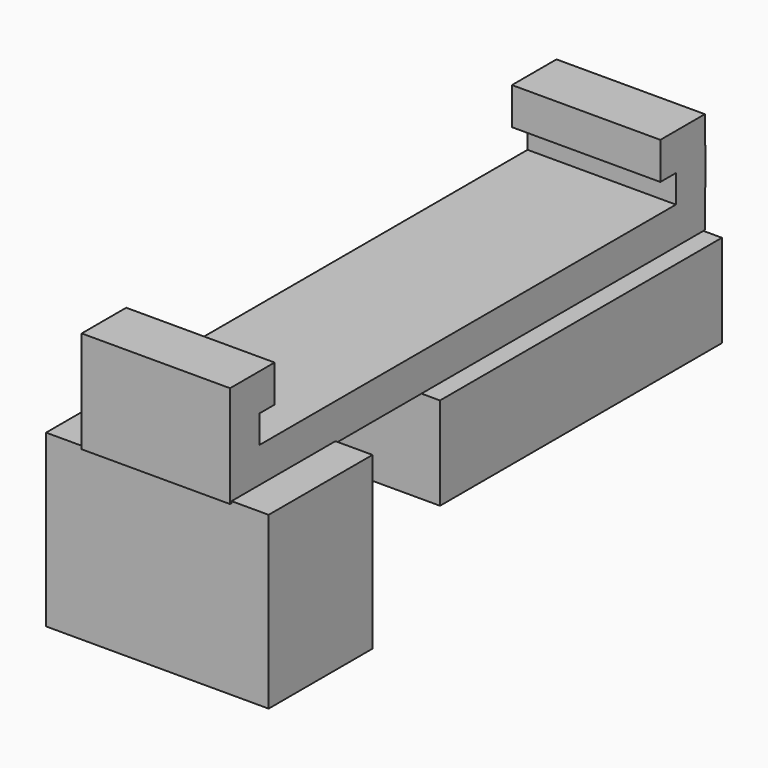
from build123d import *

# Parameters (mm, degrees)
BOX018_W               = 5.8
BOX018_H               = 8.7
BOX018_DEPTH           = 4
BOX019_W               = 1.6
BOX019_H               = 3.6
BOX019_DEPTH           = 8.5
BOX016_W               = 3.8
BOX016_H               = 8.5
BOX016_DEPTH           = 9.3
BOX017_W               = 7
BOX017_H               = 12
BOX017_DEPTH           = 9.2
CUT002_ROLL_ANGLE      = 180
CUT002_PLACEMENT_ANGLE = 90
BOX010_W               = 8
BOX010_H               = 3
BOX010_DEPTH           = 2
BOX009_W               = 8
BOX009_H               = 2
BOX009_DEPTH           = 2
BOX011_W               = 8
BOX011_H               = 2
BOX011_DEPTH           = 2
BOX012_W               = 8
BOX012_H               = 3
BOX012_DEPTH           = 2
BOX013_W               = 8
BOX013_H               = 32
BOX013_DEPTH           = 2
BOX014_W               = 15.2
BOX014_H               = 6.6
BOX014_DEPTH           = 4.5
BOX015_W               = 19
BOX015_H               = 10
BOX015_DEPTH           = 5
CUT001_ROLL_ANGLE      = 180
CUT001_PLACEMENT_ANGLE = 90


with BuildPart() as cube017:
    # Box018 → Box018 (new body)
    with BuildSketch(Plane.XY):
        with Locations((2.9, 4.35)):
            Rectangle(BOX018_W, BOX018_H)
    extrude(amount=BOX018_DEPTH)


with BuildPart() as cube018:
    # Box019 → Box019 (new body)
    with BuildSketch(Plane(origin=(1.1, 2.5, 1), x_dir=(1, 0, 0), z_dir=(0, 0, 1))):
        with Locations((0.8, 1.8)):
            Rectangle(BOX019_W, BOX019_H)
    extrude(amount=BOX019_DEPTH)


with BuildPart() as fusion008:
    # Box016 → Box016 (new body)
    with BuildSketch(Plane.XY):
        with Locations((1.9, 4.25)):
            Rectangle(BOX016_W, BOX016_H)
    extrude(amount=BOX016_DEPTH)

    # Fusion008: union Cube017, Cube018
    add(cube017.part)
    add(cube018.part)


with BuildPart() as cut002:
    # Box017 → Box017 (new body)
    with BuildSketch(Plane(origin=(-1.6, -1.65, -0.6), x_dir=(1, 0, 0), z_dir=(0, 0, 1))):
        with Locations((3.5, 6)):
            Rectangle(BOX017_W, BOX017_H)
    extrude(amount=BOX017_DEPTH)

    # Cut002: cut Fusion008
    add(fusion008.part, mode=Mode.SUBTRACT)


with BuildPart() as cut002_1:
    # Cut002 roll: moved
    add(cut002.part.rotate(Axis((0, 0, 0), (1, 0, 0)), CUT002_ROLL_ANGLE))


with BuildPart() as cut002_2:
    # Cut002 placement: moved
    add(cut002_1.part.moved(Location((-0.35, -24.6, 1))).rotate(Axis((-0.35, -24.6, 1), (0, 0, 1)), CUT002_PLACEMENT_ANGLE))


with BuildPart() as cube010:
    # Box010 → Box010 (new body)
    with BuildSketch(Plane(origin=(0, 2.7, 5), x_dir=(1, 0, 0), z_dir=(0, 0, 1))):
        with Locations((4, 1.5)):
            Rectangle(BOX010_W, BOX010_H)
    extrude(amount=BOX010_DEPTH)


with BuildPart() as fusion006:
    # Box009 → Box009 (new body)
    with BuildSketch(Plane(origin=(0, 3.75, 3.5), x_dir=(1, 0, 0), z_dir=(0, 0, 1))):
        with Locations((4, 1)):
            Rectangle(BOX009_W, BOX009_H)
    extrude(amount=BOX009_DEPTH)

    # Fusion006: union Cube010
    add(cube010.part)


with BuildPart() as cube011:
    # Box011 → Box011 (new body)
    with BuildSketch(Plane(origin=(0, -26.3, 3.5), x_dir=(1, 0, 0), z_dir=(0, 0, 1))):
        with Locations((4, 1)):
            Rectangle(BOX011_W, BOX011_H)
    extrude(amount=BOX011_DEPTH)


with BuildPart() as fusion005:
    # Box012 → Box012 (new body)
    with BuildSketch(Plane(origin=(0, -26.3, 5), x_dir=(1, 0, 0), z_dir=(0, 0, 1))):
        with Locations((4, 1.5)):
            Rectangle(BOX012_W, BOX012_H)
    extrude(amount=BOX012_DEPTH)

    # Fusion005: union Cube011
    add(cube011.part)


with BuildPart() as fusion007:
    # Box013 → Box013 (new body)
    with BuildSketch(Plane(origin=(0, -26.3, 1.5), x_dir=(1, 0, 0), z_dir=(0, 0, 1))):
        with Locations((4, 16)):
            Rectangle(BOX013_W, BOX013_H)
    extrude(amount=BOX013_DEPTH)

    # Fusion007: union Fusion006, Fusion005
    add(fusion006.part)
    add(fusion005.part)


with BuildPart() as converter:
    # Box014 → Box014 (new body)
    with BuildSketch(Plane.XY):
        with Locations((7.6, 3.3)):
            Rectangle(BOX014_W, BOX014_H)
    extrude(amount=BOX014_DEPTH)


with BuildPart() as fusion009:
    # Box015 → Box015 (new body)
    with BuildSketch(Plane(origin=(-1.7, -1.5, -1), x_dir=(1, 0, 0), z_dir=(0, 0, 1))):
        with Locations((9.5, 5)):
            Rectangle(BOX015_W, BOX015_H)
    extrude(amount=BOX015_DEPTH)

    # Cut001: cut converter
    add(converter.part, mode=Mode.SUBTRACT)


with BuildPart() as fusion009_1:
    # Cut001 roll: moved
    add(fusion009.part.rotate(Axis((0, 0, 0), (1, 0, 0)), CUT001_ROLL_ANGLE))


with BuildPart() as fusion009_2:
    # Cut001 placement: moved
    add(fusion009_1.part.moved(Location((0.5, -11.7, 0.5))).rotate(Axis((0.5, -11.7, 0.5), (0, 0, 1)), CUT001_PLACEMENT_ANGLE))

    # Fusion009: union Cut002, Fusion007
    add(cut002_2.part)
    add(fusion007.part)


solid = fusion009_2.part
